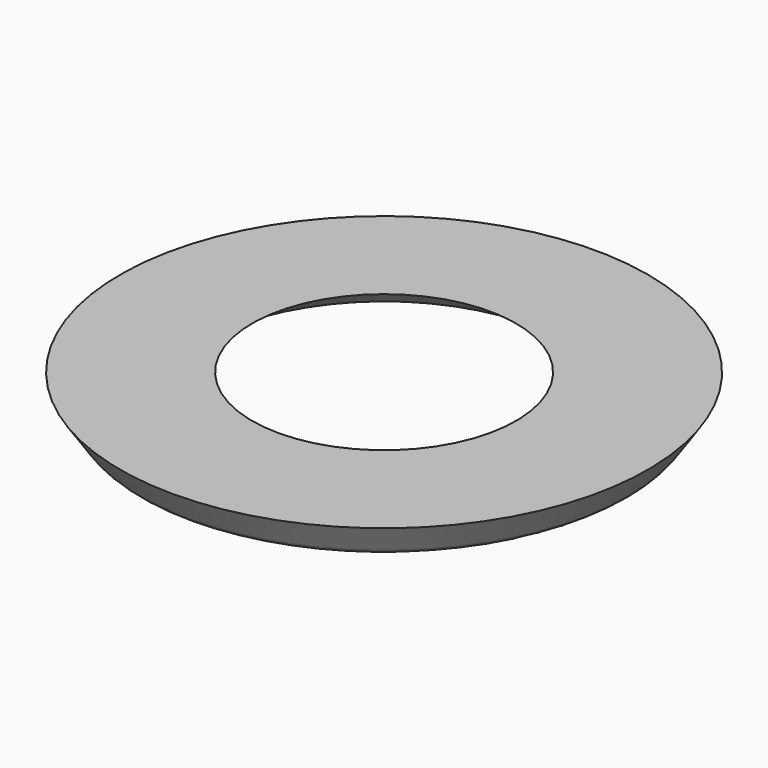
from build123d import *


with BuildPart() as f1:
    # F0 (on Right) → F1 (revolve)
    with BuildSketch(Plane.YZ):
        with BuildLine():
            Line((-46.343493, -8.365241), (-33.388968, 0))
            Line((-33.388968, 0), (-66.777936, 0))
            Line((-66.777936, 0), (-61.746456, -7.471477))
            ThreePointArc((-61.746456, -7.471477), (-60.604556, -8.500804), (-59.11294, -8.873001))
            Line((-59.11294, -8.873001), (-48.065833, -8.873001))
            ThreePointArc((-48.065833, -8.873001), (-47.16802, -8.743416), (-46.343493, -8.365241))
        make_face()
    revolve(axis=Axis((0, 0, 1.647792), (0, 0, 1)))


solid = f1.part
